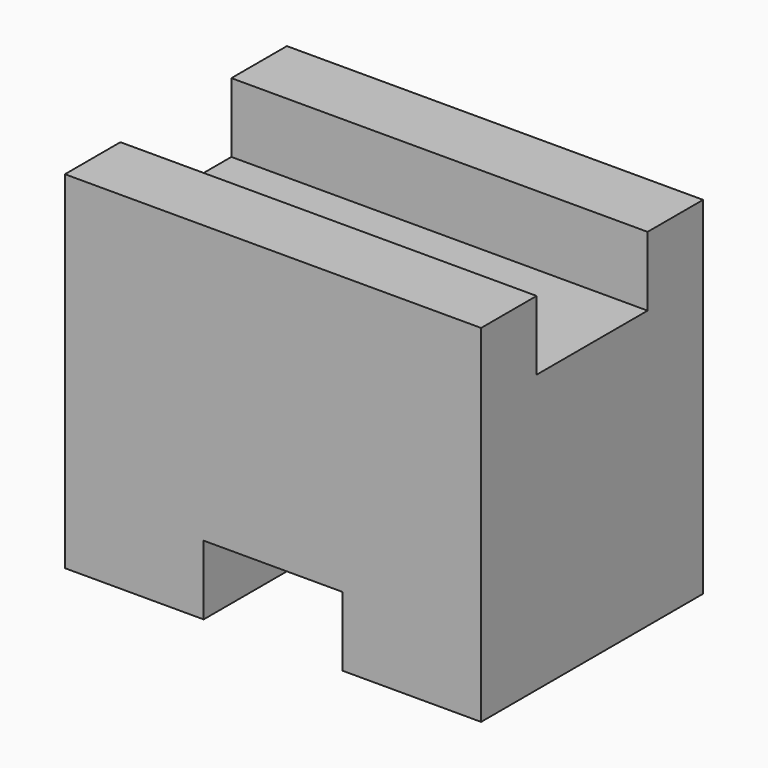
from build123d import *

# Parameters (mm, degrees)
F1_DEPTH = 25.4
F2_W     = 38.1
F2_H     = 12.7
F3_DEPTH = 6.35


with BuildPart() as f1:
    # F0 (on Front) → F1 (new body)
    with BuildSketch(Plane.XZ):
        Polygon((0, 31.75), (0, 0), (12.7, 0), (12.7, 6.35), (25.4, 6.35), (25.4, 0), (38.1, 0), (38.1, 31.75), align=None)
        Polygon((0, 31.75), (0, 0), (12.7, 0), (12.7, 6.35), (25.4, 6.35), (25.4, 0), (38.1, 0), (38.1, 31.75), align=None)
    extrude(amount=F1_DEPTH)

    # F2 (on face) → F3 (cut)
    with BuildSketch(Plane.XY.offset(31.75)):
        with Locations((19.05, -12.7)):
            Rectangle(F2_W, F2_H)
    extrude(amount=-F3_DEPTH, mode=Mode.SUBTRACT)


solid = f1.part
